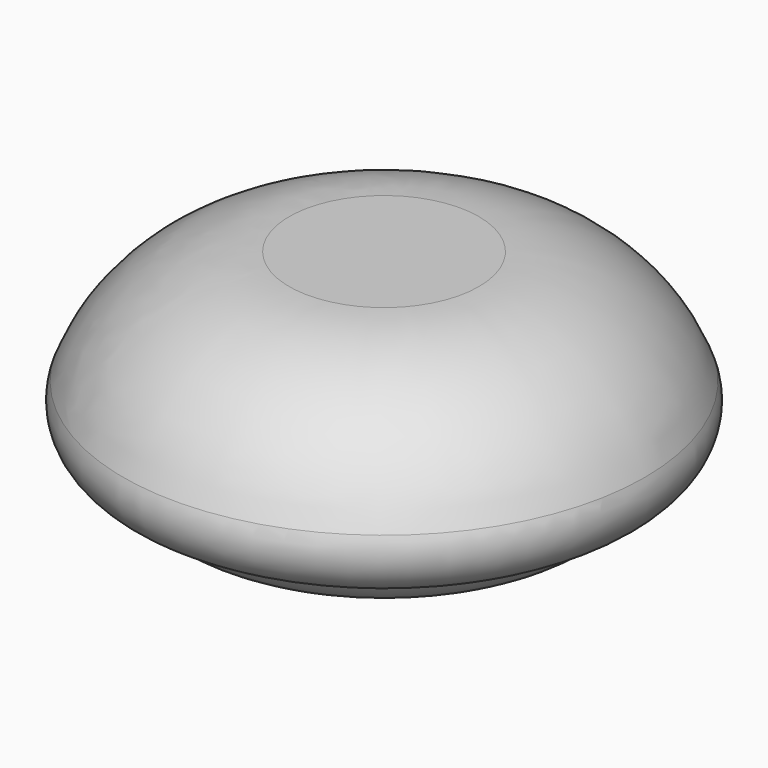
from build123d import *


with BuildPart() as f1:
    # F0 (on Front) → F1 (revolve)
    with BuildSketch(Plane.XZ):
        with BuildLine():
            Line((8, 0), (0, 0))
            Line((0, 0), (0, -19.970913))
            Line((0, -19.970913), (14.475831, -17.874001))
            ThreePointArc((14.475831, -17.874001), (16.771485, -16.916278), (18.321585, -14.970913))
            ThreePointArc((18.321585, -14.970913), (21.570366, -13.260932), (22, -9.614835))
            ThreePointArc((22, -9.614835), (16.491835, -2.635182), (8, 0))
        make_face()
    revolve(axis=Axis((0, 0, -9.985457), (0, 0, 1)))


solid = f1.part
